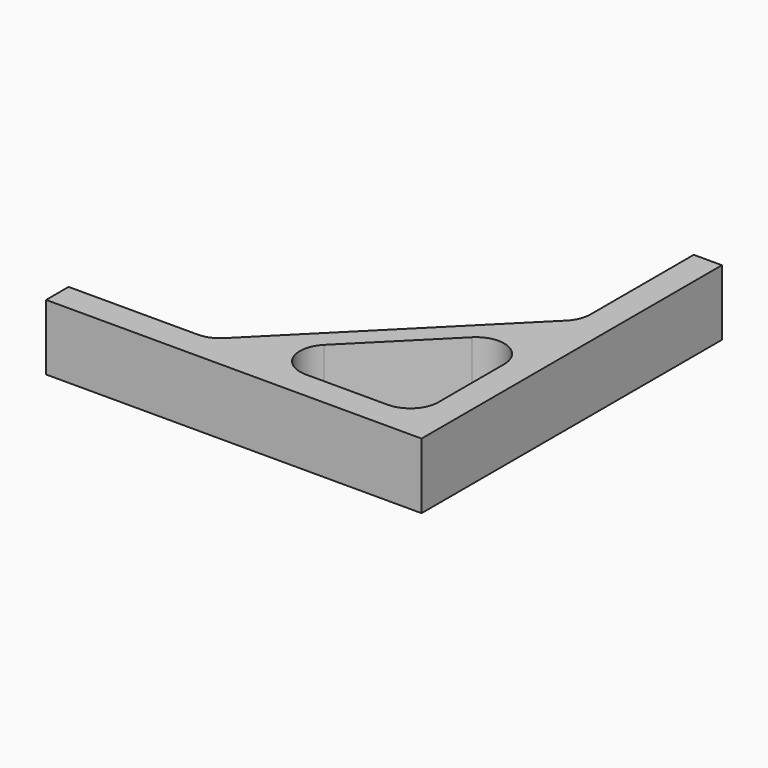
from build123d import *

# Parameters (mm, degrees)
PAD_DEPTH = 7
FILLET_R  = 3


with BuildPart() as part:
    # Sketch → Pad (new body)
    with BuildSketch(Plane.XY):
        Polygon((0, 0), (-40, 0), (-40, 3), (-25, 3), (-3, 25), (-3, 40), (0, 40), align=None)
        Polygon((-3, 22), (-22, 3), (-3, 3), align=None, mode=Mode.SUBTRACT)
    extrude(amount=PAD_DEPTH)

    # Fillet
    fillet_edges = [part.edges().sort_by_distance(p)[0] for p in [
        (-22, 3, 3.5),
        (-25, 3, 3.5),
        (-3, 22, 3.5),
        (-3, 25, 3.5),
        (-3, 3, 3.5),
    ]]
    fillet(fillet_edges, radius=FILLET_R)


solid = part.part
